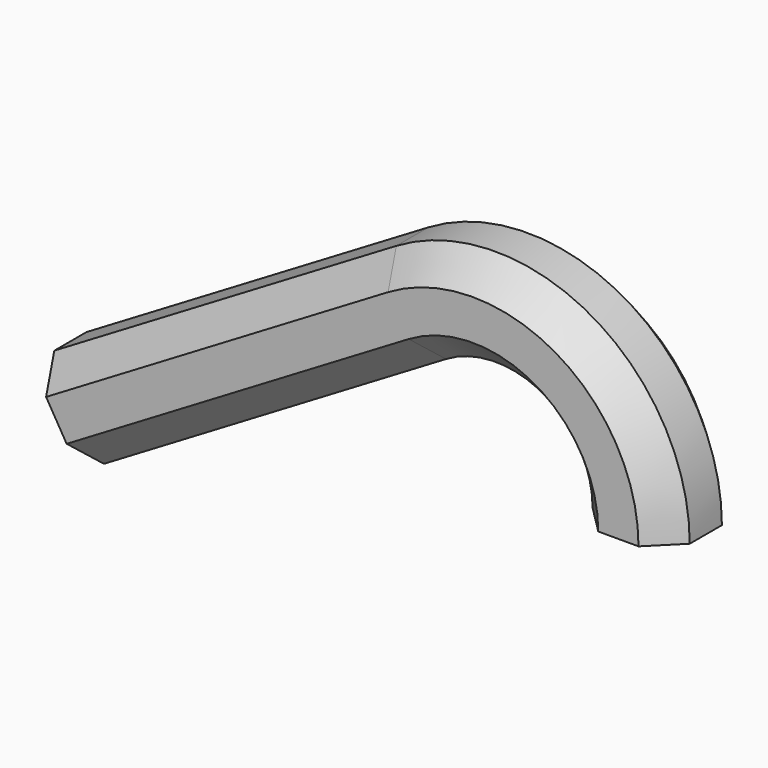
from build123d import *


with BuildPart() as f15:
    # F15: sweep along a path in F14
    with BuildLine(Plane.XZ) as f15_path:
        ThreePointArc((0, 0), (-23.231615305, 39.9364087047), (-69.4313943386, 39.4835211337))
        Line((-69.4313943386, 39.4835211337), (-177.3874624529, -24.7406701782))
    # F13 (on Top) → F15 (sweep)
    with BuildSketch(Plane.XY):
        Polygon((6.35, 15.3302561211), (-6.35, 15.3302561211), (-15.3302561211, 6.35), (-15.3302561211, -6.35), (-6.35, -15.3302561211), (6.35, -15.3302561211), (15.3302561211, -6.35), (15.3302561211, 6.35), align=None)
    sweep(path=f15_path.line)


solid = f15.part
